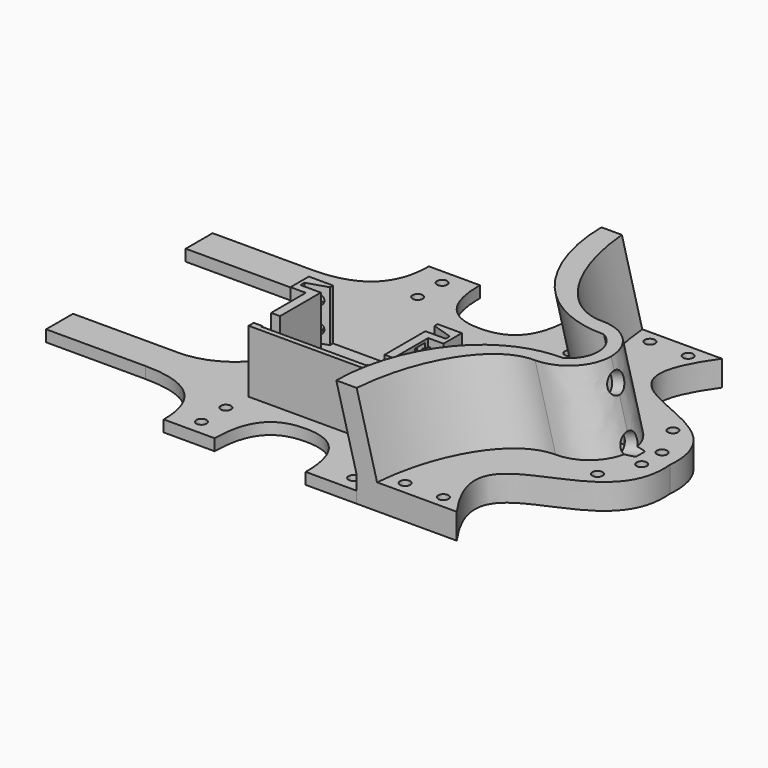
from build123d import *

# Parameters (mm, degrees)
EXTRUDE006_DEPTH = 30
EXTRUDE005_DEPTH = 3
EXTRUDE001_DEPTH = 25
POCKET001_DEPTH  = 20
SKETCH005_R      = 2
POCKET002_DEPTH  = 20
EXTRUDE004_DEPTH = 2.45
SKETCH001_R      = 2
EXTRUDE_DEPTH    = 4.5
SKETCH009_R      = 2
POCKET003_DEPTH  = 10
SKETCH010_R      = 3.5
POCKET_DEPTH     = 5
SKETCH011_W      = 8.5
SKETCH011_H      = 29.055959
POCKET004_DEPTH  = 50
PAD_DEPTH        = 8
PAD_DEPTH_BACK   = 8
SKETCH015_R      = 2
EXTRUDE007_DEPTH = 10
SKETCH019_R      = 4
POCKET005_DEPTH  = 10


with BuildPart() as extrude006:
    # Sketch013 → Extrude006 (new body, symmetric)
    with BuildSketch(Plane.XZ):
        Polygon((-59, 5), (-22.11842, 8), (-59, 8), align=None)
    extrude(amount=EXTRUDE006_DEPTH, both=True)


with BuildPart() as cut001:
    # Sketch012 (on Face2 of Pad) → Extrude005 (new body)
    with BuildSketch(Plane.XY.offset(4.5)):
        with BuildLine():
            Line((-50.299679, 18.349307), (-22.213041, 3.878854))
            ThreePointArc((-22.213041, -3.878854), (-21.068427, 0), (-22.213041, 3.878854))
            Line((-22.213041, -3.878854), (-56.078655, -17.327235))
            Line((-56.078655, -17.327235), (-56.078655, -11.327235))
            Line((-56.078655, -11.327235), (-28.213041, 0))
            Line((-28.213041, 0), (-50.299679, 12.349307))
            Line((-50.299679, 12.349307), (-50.299679, 18.349307))
        make_face()
    extrude(amount=EXTRUDE005_DEPTH)

    # Cut001: cut Extrude006
    add(extrude006.part, mode=Mode.SUBTRACT)


with BuildPart() as body001:
    # Sketch003 (on Sketch) → Extrude001 (new body)
    with BuildSketch(Plane(origin=(0, 0, 0), x_dir=(0, 1, 0), z_dir=(0, 0, 1))):
        Polygon((0, 110), (0, 50), (-9, 50), (-9, 56), (-37, 56), (-37, 104), (-9, 104), (-9, 110), align=None)
    extrude(amount=EXTRUDE001_DEPTH)


with BuildPart() as body001_1:
    # Extrude001 placement: moved
    add(body001.part.moved(Location((0, 0, 2))))


with BuildPart() as body001_2:
    # BaseFeature001 placement: moved
    add(body001_1.part.moved(Location((0, 0, -2))))

    # Sketch004 (on Face10 of Extrude001) → Pocket001 (cut)
    with BuildSketch(Plane(origin=(0, -3, 25), x_dir=(1, 0, 0), z_dir=(0, 0, 1))):
        Polygon((-100.5, 4.5), (-59.5, 4.5), (-59.5, 1.5), (-51.5, -1), (-51.5, -3), (-59.5, -3), (-59.5, -32), (-100.5, -32), (-100.5, -3), (-108.5, -3), (-108.5, -1), (-100.5, 1.5), align=None)
    extrude(amount=-POCKET001_DEPTH, mode=Mode.SUBTRACT)

    # Sketch005 (on Face1 of Pocket001) → Pocket002 (cut)
    with BuildSketch(Plane(origin=(0, 0, 0), x_dir=(-1, 0, 0), z_dir=(0, 1, 0))):
        with Locations((55.75, 20)):
            Circle(SKETCH005_R)
        with Locations((55.75, 10)):
            Circle(SKETCH005_R)
        with Locations((104.25, 10)):
            Circle(SKETCH005_R)
        with Locations((104.25, 20)):
            Circle(SKETCH005_R)
    extrude(amount=-POCKET002_DEPTH, mode=Mode.SUBTRACT)


with BuildPart() as body001_3:
    # Body001 placement: moved
    add(body001_2.part.moved(Location((0, 0, 4))))


with BuildPart() as extrude004:
    # Sketch008 → Extrude004 (new body)
    with BuildSketch(Plane(origin=(0, 0, 4.5), x_dir=(0, 1, 0), z_dir=(0, 0, 1))):
        with BuildLine():
            Line((0, 19), (2.9, 19))
            Line((2.9, 19), (2.9, 15.682663))
            Line((4.4, 4.079216), (2.9, 15.682663))
            ThreePointArc((6, 0), (5.585696, 2.19089), (4.4, 4.079216))
            Line((0, 0), (6, 0))
            Line((0, 0), (0, 19))
        make_face()
    extrude(amount=-EXTRUDE004_DEPTH)


with BuildPart() as fusion003:
    # Part__Mirroring002: instance of Extrude004
    add(extrude004.part.mirror(Plane(origin=(0, 0, 0), x_dir=(0, -1, 0), z_dir=(1, 0, 0))))

    # Fusion003: union Extrude004
    add(extrude004.part)


with BuildPart() as cut:
    # Sketch001 → Extrude (new body)
    with BuildSketch(Plane.XY):
        with BuildLine():
            ThreePointArc((1.6, 0), (0, 1.6), (-1.6, 0))
            Line((-1.6, 0), (-111.399942, 0))
            ThreePointArc((-111.399942, 0), (-119.493138, 19.538702), (-139.031839, 27.631897))
            Line((-139.031839, 27.631897), (-180.39799, 27.631897))
            Line((-180.39799, 27.631897), (-180.39799, 40.819126))
            Line((-180.39799, 40.819126), (-141.416297, 40.819126))
            add(Edge.make_bspline(
                [(-141.416297, 40.819126), (-114.925642, 40.819126), (-114.925642, 65)],
                knots=[0, 0, 0, 1, 1, 1], degree=2))
            Line((-114.925642, 65), (-94.925642, 65))
            add(Edge.make_bspline(
                [(-94.925642, 65), (-94.925642, 46.397866), (-77.083081, 38.785152), (-59.240521, 46.397866), (-59.240521, 65)],
                knots=[0, 0, 0, 0, 0.5, 1, 1, 1, 1], degree=3))
            Line((-59.240521, 65), (-39.240521, 65))
            add(Edge.make_bspline(
                [(-39.240521, 65), (-39.240521, 40), (-24.240521, 10), (5.759479, 10)],
                knots=[0, 0, 0, 0, 1, 1, 1, 1], degree=3))
            ThreePointArc((5.759479, 10), (9.990896, 5.775258), (11.54, 0))
            Line((11.54, 0), (1.6, 0))
        make_face()
        with Locations((-45.240521, 59)):
            Circle(SKETCH001_R, mode=Mode.SUBTRACT)
        with Locations((-45.240521, 47)):
            Circle(SKETCH001_R, mode=Mode.SUBTRACT)
        with Locations((-104.925642, 59)):
            Circle(SKETCH001_R, mode=Mode.SUBTRACT)
        with Locations((-104.925642, 47)):
            Circle(SKETCH001_R, mode=Mode.SUBTRACT)
    extrude(amount=EXTRUDE_DEPTH)

    # Cut: cut Fusion003
    add(fusion003.part, mode=Mode.SUBTRACT)


with BuildPart() as part_mirroring:
    # Part__Mirroring: instance of Cut
    add(cut.part.mirror(Plane(origin=(0, 0, 0), x_dir=(1, 0, 0), z_dir=(0, 1, 0))))


with BuildPart() as fusion004:
    # Fusion base: copy of Cut
    add(cut.part)

    # Fusion: union Part__Mirroring
    add(part_mirroring.part)

    # Fusion001: union Body001
    add(body001_3.part)

    # Sketch009 → Pocket003 (cut)
    with BuildSketch(Plane.XY.offset(4.5)):
        with Locations((-14, 0)):
            Circle(SKETCH009_R)
    extrude(amount=-POCKET003_DEPTH, mode=Mode.SUBTRACT)

    # Sketch010 (on Face1 of Pocket001) → Pocket (cut)
    with BuildSketch(Plane(origin=(0, -10.5, 0), x_dir=(-1, 0, 0), z_dir=(0, 1, 0))):
        with Locations((55.75, 24.5)):
            Circle(SKETCH010_R)
        with Locations((55.75, 14.5)):
            Circle(SKETCH010_R)
        with Locations((104.25, 14.5)):
            Circle(SKETCH010_R)
        with Locations((104.25, 24.5)):
            Circle(SKETCH010_R)
    extrude(amount=-POCKET_DEPTH, mode=Mode.SUBTRACT)

    # Sketch011 (on Face14 of Pocket002) → Pocket004 (cut)
    with BuildSketch(Plane.YZ.offset(-56)):
        with Locations((-30.25, 22.52798)):
            Rectangle(SKETCH011_W, SKETCH011_H)
    extrude(amount=-POCKET004_DEPTH, mode=Mode.SUBTRACT)

    # Sketch014 → Pad (join, two sides)
    with BuildSketch(Plane.XZ) as pad_sk:
        with BuildLine():
            ThreePointArc((-15, 4.5), (-19, 8.5), (-23, 4.5))
            Line((-23, 4.5), (-15, 4.5))
        make_face()
    extrude(amount=PAD_DEPTH)
    extrude(pad_sk.sketch, amount=-PAD_DEPTH_BACK)

    # Fusion004: union Cut001
    add(cut001.part)


with BuildPart() as loft_body:
    # Sketch016 (on Face12 of Extrude007) → Loft section 0
    with BuildSketch(Plane.XY.offset(10)):
        with BuildLine():
            ThreePointArc((11.54, 0), (9.990896, 5.775258), (5.759479, 10))
            add(Edge.make_bspline(
                [(-39.240521, 65), (-39.240521, 40), (-24.240521, 10), (5.759479, 10)],
                knots=[0, 0, 0, 0, 1, 1, 1, 1], degree=3))
            Line((-39.240521, 65), (-31.240521, 65))
            add(Edge.make_bspline(
                [(0, 16.54), (-16.484031, 16.311645), (-29.240521, 39.8166), (-31.240521, 65)],
                knots=[0, 0, 0, 0, 1, 1, 1, 1], degree=3))
            ThreePointArc((0, 16.54), (11.695546, 11.695546), (16.54, 0))
            Line((16.54, 0), (11.54, 0))
        make_face()
    # Sketch017 (on Face12 of Extrude007) → Loft section 1
    with BuildSketch(Plane(origin=(-8, 0, 40), x_dir=(1, 0, 0), z_dir=(0, 0, 1))):
        with BuildLine():
            ThreePointArc((11.54, 0), (9.990896, 5.775258), (5.759479, 10))
            add(Edge.make_bspline(
                [(-39.240521, 65), (-39.240521, 40), (-24.240521, 10), (5.759479, 10)],
                knots=[0, 0, 0, 0, 1, 1, 1, 1], degree=3))
            Line((-39.240521, 65), (-31.240521, 65))
            add(Edge.make_bspline(
                [(0, 16.54), (-16.484031, 16.311645), (-29.240521, 39.8166), (-31.240521, 65)],
                knots=[0, 0, 0, 0, 1, 1, 1, 1], degree=3))
            ThreePointArc((0, 16.54), (11.695546, 11.695546), (16.54, 0))
            Line((16.54, 0), (11.54, 0))
        make_face()
    loft()


with BuildPart() as fusion005:
    # Sketch015 → Extrude007 (new body)
    with BuildSketch(Plane.XY):
        with BuildLine():
            ThreePointArc((11.54, 0), (9.990896, 5.775258), (5.759479, 10))
            add(Edge.make_bspline(
                [(-39.240521, 65), (-39.240521, 40), (-24.240521, 10), (5.759479, 10)],
                knots=[0, 0, 0, 0, 1, 1, 1, 1], degree=3))
            Line((-39.240521, 65), (-29.240521, 65))
            Line((-29.240521, 65), (0, 65))
            add(Edge.make_bspline(
                [(0, 65), (-32.044388, 20.012217), (35.062534, 40.313469), (31.54, 0)],
                knots=[0, 0, 0, 0, 1, 1, 1, 1], degree=3))
            Line((31.54, 0), (11.54, 0))
        make_face()
        with Locations((-24.240521, 60)):
            Circle(SKETCH015_R, mode=Mode.SUBTRACT)
        with Locations((-9.240521, 60)):
            Circle(SKETCH015_R, mode=Mode.SUBTRACT)
        with Locations((17.991733, 18.495192)):
            Circle(SKETCH015_R, mode=Mode.SUBTRACT)
        with Locations((24.54, 5)):
            Circle(SKETCH015_R, mode=Mode.SUBTRACT)
    extrude(amount=EXTRUDE007_DEPTH)

    # Fusion005: union Loft body
    add(loft_body.part)


with BuildPart() as body:
    # Part__Mirroring003: instance of Fusion005
    add(fusion005.part.mirror(Plane(origin=(0, 0, 0), x_dir=(1, 0, 0), z_dir=(0, 1, 0))))

    # Fusion006: union Fusion005
    add(fusion005.part)

    # Sketch019 (on Face5 of Part__Mirroring003) → Pocket005 (cut)
    with BuildSketch(Plane(origin=(5.553755, 0, 25), x_dir=(0, 1, 0), z_dir=(0.963681, 0, 0.267058))):
        with Locations((0, -15)):
            Circle(SKETCH019_R)
        with Locations((0, 5)):
            Circle(SKETCH019_R)
    extrude(amount=POCKET005_DEPTH, mode=Mode.SUBTRACT)


solid = Compound([fusion004.part, body.part])
